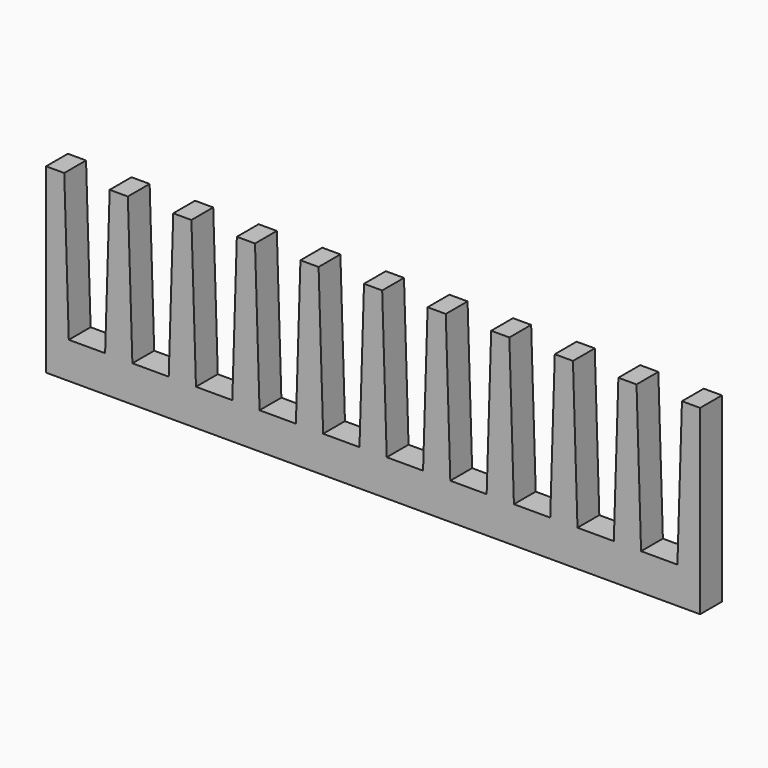
from build123d import *

# Parameters (mm, degrees)
F0_W     = 360
F0_H     = 100
F1_DEPTH = 15
F3_DEPTH = 15


with BuildPart() as f1:
    # F0 (on Front) → F1 (new body)
    with BuildSketch(Plane.XZ):
        with Locations((-12.363208, -2.984696)):
            Rectangle(F0_W, F0_H)
    extrude(amount=F1_DEPTH)

    # F2 (on face) → F3 (intersect, through all)
    with BuildSketch(Plane.XZ.offset(15)):
        Polygon((-182.363208, 47.015304), (-192.363208, 47.015304), (-192.363208, -52.984696), (167.636792, -52.984696), (167.636792, 47.015304), (157.636792, 47.015304), (155.136792, -32.984696), (135.136792, -32.984696), (132.636792, 47.015304), (122.636792, 47.015304), (120.136792, -32.984696), (100.136792, -32.984696), (97.636792, 47.015304), (87.636792, 47.015304), (85.136792, -32.984696), (65.136792, -32.984696), (62.636792, 47.015304), (52.636792, 47.015304), (50.136792, -32.984696), (30.136792, -32.984696), (27.636792, 47.015304), (17.636792, 47.015304), (15.136792, -32.984696), (-4.863208, -32.984696), (-7.363208, 47.015304), (-17.363208, 47.015304), (-19.863208, -32.984696), (-39.863208, -32.984696), (-42.363208, 47.015304), (-52.363208, 47.015304), (-54.863208, -32.984696), (-74.863208, -32.984696), (-77.363208, 47.015304), (-87.363208, 47.015304), (-89.863208, -32.984696), (-109.863208, -32.984696), (-112.363208, 47.015304), (-122.363208, 47.015304), (-124.863208, -32.984696), (-144.863208, -32.984696), (-147.363208, 47.015304), (-157.363208, 47.015304), (-159.863208, -32.984696), (-179.863208, -32.984696), align=None)
    extrude(amount=-F3_DEPTH, mode=Mode.INTERSECT)


solid = f1.part
